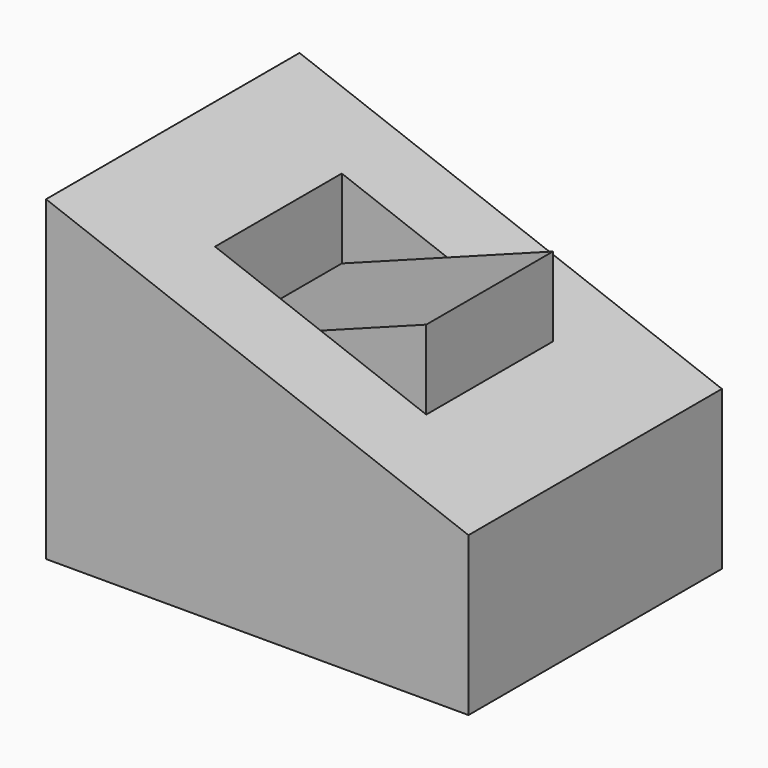
from build123d import *

# Parameters (mm, degrees)
F1_DEPTH = 15
F2_DEPTH = 7.5
F3_DEPTH = 7.5


with BuildPart() as f1:
    # F0 (on Front) → F1 (new body, symmetric)
    with BuildSketch(Plane.XZ):
        Polygon((0, 30), (0, 0), (40, 0), (40, 15), (30, 18.75), (10, 18.75), (10, 26.25), align=None)
        Polygon((10, 18.75), (30, 18.75), (20, 22.5), align=None)
        Polygon((20, 22.5), (10, 26.25), (10, 18.75), align=None)
    extrude(amount=F1_DEPTH, both=True)

    # F0 (on Front) → F2 (cut, symmetric)
    with BuildSketch(Plane.XZ):
        Polygon((20, 22.5), (10, 26.25), (10, 18.75), align=None)
    extrude(amount=F2_DEPTH, both=True, mode=Mode.SUBTRACT)

    # F0 (on Front) → F3 (join, symmetric)
    with BuildSketch(Plane.XZ):
        Polygon((20, 22.5), (30, 18.75), (30, 26.25), align=None)
    extrude(amount=F3_DEPTH, both=True)


solid = f1.part
